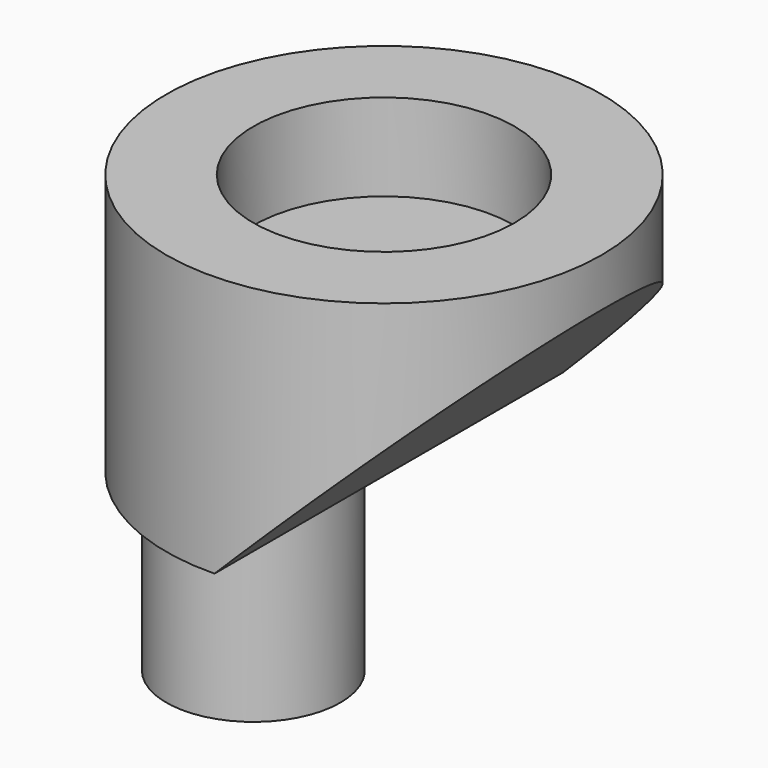
from build123d import *

# Parameters (mm, degrees)
F0_R          = 2.5
F1_DEPTH      = 3
F3_DEPTH      = 25
F3_DEPTH_BACK = 25
F4_R          = 1
F5_DEPTH      = 2.5
F6_R          = 1.5
F7_DEPTH      = 1


with BuildPart() as f1:
    # F0 (on Top) → F1 (new body)
    with BuildSketch(Plane.XY):
        Circle(F0_R)
    extrude(amount=F1_DEPTH)

    # F2 (on Front) → F3 (cut, two sides)
    with BuildSketch(Plane.XZ) as f3_sk:
        Polygon((6.7282968301, 6.6747666272), (-4.7879227272, -4.8414529301), (6.7282968301, -4.8414529301), align=None)
    extrude(amount=-F3_DEPTH, mode=Mode.SUBTRACT)
    extrude(f3_sk.sketch, amount=F3_DEPTH_BACK, mode=Mode.SUBTRACT)

    # F4 (on face) → F5 (join)
    with BuildSketch(Plane(origin=(0, 0, 0), x_dir=(1, 0, 0), z_dir=(0, 0, -1))):
        with Locations((-1.5, 0)):
            Circle(F4_R)
    extrude(amount=F5_DEPTH)

    # F6 (on face) → F7 (cut)
    with BuildSketch(Plane.XY.offset(3)):
        Circle(F6_R)
    extrude(amount=-F7_DEPTH, mode=Mode.SUBTRACT)


solid = f1.part
